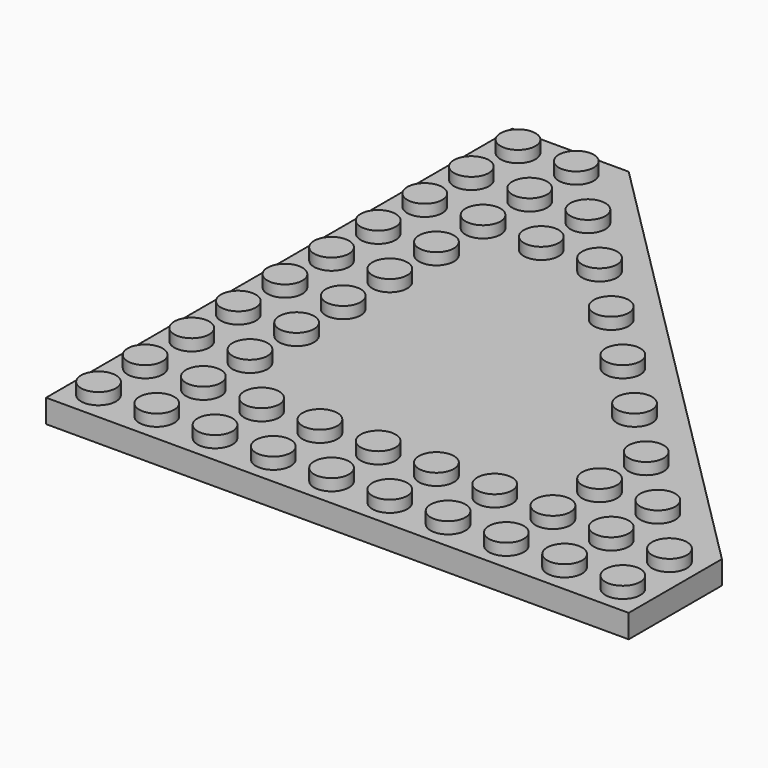
from build123d import *

# Parameters (mm, degrees)
F0_R     = 2.38125
F1_DEPTH = 3.175
F2_DEPTH = 4.7625
F3_T     = -1.5875
F4_R     = 3.175
F4_R_2   = 2.38125
F5_DEPTH = 1.5875
F6_DEPTH = 25.4


with BuildPart() as f1:
    # F0 (on Top) → F1 (new body)
    with BuildSketch(Plane.XY):
        with BuildLine():
            Line((-23.8125, 39.6875), (-39.6875, 39.6875))
            Line((-39.6875, 39.6875), (-39.6875, -39.6875))
            Line((-39.6875, -39.6875), (39.6875, -39.6875))
            Line((39.6875, -39.6875), (39.6875, -23.8125))
            Line((39.6875, -23.8125), (37.4025480227, -21.5275480227))
            ThreePointArc((37.4025480227, -21.5275480227), (34.0349519773, -21.5275480227), (34.0349519773, -18.1599519773))
            Line((34.0349519773, -18.1599519773), (29.4650480227, -13.5900480227))
            ThreePointArc((29.4650480227, -13.5900480227), (26.0974519773, -13.5900480227), (26.0974519773, -10.2224519773))
            Line((26.0974519773, -10.2224519773), (21.5275480227, -5.6525480227))
            ThreePointArc((21.5275480227, -5.6525480227), (18.1599519773, -5.6525480227), (18.1599519773, -2.2849519773))
            Line((18.1599519773, -2.2849519773), (13.5900480227, 2.2849519773))
            ThreePointArc((13.5900480227, 2.2849519773), (10.2224519773, 2.2849519773), (10.2224519773, 5.6525480227))
            Line((10.2224519773, 5.6525480227), (5.6525480227, 10.2224519773))
            ThreePointArc((5.6525480227, 10.2224519773), (2.2849519773, 10.2224519773), (2.2849519773, 13.5900480227))
            Line((2.2849519773, 13.5900480227), (-2.2849519773, 18.1599519773))
            ThreePointArc((-2.2849519773, 18.1599519773), (-5.6525480227, 18.1599519773), (-5.6525480227, 21.5275480227))
            Line((-5.6525480227, 21.5275480227), (-10.2224519773, 26.0974519773))
            ThreePointArc((-10.2224519773, 26.0974519773), (-13.5900480227, 26.0974519773), (-13.5900480227, 29.4650480227))
            Line((-13.5900480227, 29.4650480227), (-18.1599519773, 34.0349519773))
            ThreePointArc((-18.1599519773, 34.0349519773), (-21.5275480227, 34.0349519773), (-21.5275480227, 37.4025480227))
            Line((-21.5275480227, 37.4025480227), (-23.8125, 39.6875))
        make_face()
        with Locations((-35.71875, -35.71875)):
            Circle(F0_R, mode=Mode.SUBTRACT)
        with Locations((-27.78125, -35.71875)):
            Circle(F0_R, mode=Mode.SUBTRACT)
        with Locations((-19.84375, -35.71875)):
            Circle(F0_R, mode=Mode.SUBTRACT)
        with Locations((-35.71875, -27.78125)):
            Circle(F0_R, mode=Mode.SUBTRACT)
        with Locations((-27.78125, -27.78125)):
            Circle(F0_R, mode=Mode.SUBTRACT)
        with Locations((-19.84375, -27.78125)):
            Circle(F0_R, mode=Mode.SUBTRACT)
        with Locations((-11.90625, -35.71875)):
            Circle(F0_R, mode=Mode.SUBTRACT)
        with Locations((-3.96875, -35.71875)):
            Circle(F0_R, mode=Mode.SUBTRACT)
        with Locations((-11.90625, -27.78125)):
            Circle(F0_R, mode=Mode.SUBTRACT)
        with Locations((-3.96875, -27.78125)):
            Circle(F0_R, mode=Mode.SUBTRACT)
        with Locations((-35.71875, -19.84375)):
            Circle(F0_R, mode=Mode.SUBTRACT)
        with Locations((-35.71875, -11.90625)):
            Circle(F0_R, mode=Mode.SUBTRACT)
        with Locations((-27.78125, -19.84375)):
            Circle(F0_R, mode=Mode.SUBTRACT)
        with Locations((-19.84375, -19.84375)):
            Circle(F0_R, mode=Mode.SUBTRACT)
        with Locations((-27.78125, -11.90625)):
            Circle(F0_R, mode=Mode.SUBTRACT)
        with Locations((-19.84375, -11.90625)):
            Circle(F0_R, mode=Mode.SUBTRACT)
        with Locations((-35.71875, -3.96875)):
            Circle(F0_R, mode=Mode.SUBTRACT)
        with Locations((-27.78125, -3.96875)):
            Circle(F0_R, mode=Mode.SUBTRACT)
        with Locations((-19.84375, -3.96875)):
            Circle(F0_R, mode=Mode.SUBTRACT)
        with Locations((-11.90625, -19.84375)):
            Circle(F0_R, mode=Mode.SUBTRACT)
        with Locations((-11.90625, -11.90625)):
            Circle(F0_R, mode=Mode.SUBTRACT)
        with Locations((-3.96875, -19.84375)):
            Circle(F0_R, mode=Mode.SUBTRACT)
        with Locations((-3.96875, -11.90625)):
            Circle(F0_R, mode=Mode.SUBTRACT)
        with Locations((-11.90625, -3.96875)):
            Circle(F0_R, mode=Mode.SUBTRACT)
        with Locations((-3.96875, -3.96875)):
            Circle(F0_R, mode=Mode.SUBTRACT)
        with Locations((3.96875, -35.71875)):
            Circle(F0_R, mode=Mode.SUBTRACT)
        with Locations((11.90625, -35.71875)):
            Circle(F0_R, mode=Mode.SUBTRACT)
        with Locations((3.96875, -27.78125)):
            Circle(F0_R, mode=Mode.SUBTRACT)
        with Locations((11.90625, -27.78125)):
            Circle(F0_R, mode=Mode.SUBTRACT)
        with Locations((19.84375, -35.71875)):
            Circle(F0_R, mode=Mode.SUBTRACT)
        with Locations((27.78125, -35.71875)):
            Circle(F0_R, mode=Mode.SUBTRACT)
        with Locations((35.71875, -35.71875)):
            Circle(F0_R, mode=Mode.SUBTRACT)
        with Locations((19.84375, -27.78125)):
            Circle(F0_R, mode=Mode.SUBTRACT)
        with Locations((27.78125, -27.78125)):
            Circle(F0_R, mode=Mode.SUBTRACT)
        with Locations((35.71875, -27.78125)):
            Circle(F0_R, mode=Mode.SUBTRACT)
        with Locations((3.96875, -19.84375)):
            Circle(F0_R, mode=Mode.SUBTRACT)
        with Locations((3.96875, -11.90625)):
            Circle(F0_R, mode=Mode.SUBTRACT)
        with Locations((11.90625, -19.84375)):
            Circle(F0_R, mode=Mode.SUBTRACT)
        with Locations((11.90625, -11.90625)):
            Circle(F0_R, mode=Mode.SUBTRACT)
        with Locations((3.96875, -3.96875)):
            Circle(F0_R, mode=Mode.SUBTRACT)
        with Locations((11.90625, -3.96875)):
            Circle(F0_R, mode=Mode.SUBTRACT)
        with Locations((19.84375, -19.84375)):
            Circle(F0_R, mode=Mode.SUBTRACT)
        with Locations((27.78125, -19.84375)):
            Circle(F0_R, mode=Mode.SUBTRACT)
        with Locations((19.84375, -11.90625)):
            Circle(F0_R, mode=Mode.SUBTRACT)
        with Locations((-35.71875, 3.96875)):
            Circle(F0_R, mode=Mode.SUBTRACT)
        with Locations((-27.78125, 3.96875)):
            Circle(F0_R, mode=Mode.SUBTRACT)
        with Locations((-19.84375, 3.96875)):
            Circle(F0_R, mode=Mode.SUBTRACT)
        with Locations((-35.71875, 11.90625)):
            Circle(F0_R, mode=Mode.SUBTRACT)
        with Locations((-27.78125, 11.90625)):
            Circle(F0_R, mode=Mode.SUBTRACT)
        with Locations((-19.84375, 11.90625)):
            Circle(F0_R, mode=Mode.SUBTRACT)
        with Locations((-11.90625, 3.96875)):
            Circle(F0_R, mode=Mode.SUBTRACT)
        with Locations((-3.96875, 3.96875)):
            Circle(F0_R, mode=Mode.SUBTRACT)
        with Locations((-11.90625, 11.90625)):
            Circle(F0_R, mode=Mode.SUBTRACT)
        with Locations((-3.96875, 11.90625)):
            Circle(F0_R, mode=Mode.SUBTRACT)
        with Locations((-35.71875, 19.84375)):
            Circle(F0_R, mode=Mode.SUBTRACT)
        with Locations((-35.71875, 27.78125)):
            Circle(F0_R, mode=Mode.SUBTRACT)
        with Locations((-27.78125, 19.84375)):
            Circle(F0_R, mode=Mode.SUBTRACT)
        with Locations((-19.84375, 19.84375)):
            Circle(F0_R, mode=Mode.SUBTRACT)
        with Locations((-27.78125, 27.78125)):
            Circle(F0_R, mode=Mode.SUBTRACT)
        with Locations((-19.84375, 27.78125)):
            Circle(F0_R, mode=Mode.SUBTRACT)
        with Locations((-35.71875, 35.71875)):
            Circle(F0_R, mode=Mode.SUBTRACT)
        with Locations((-27.78125, 35.71875)):
            Circle(F0_R, mode=Mode.SUBTRACT)
        with Locations((-11.90625, 19.84375)):
            Circle(F0_R, mode=Mode.SUBTRACT)
        with Locations((3.96875, 3.96875)):
            Circle(F0_R, mode=Mode.SUBTRACT)
        with BuildLine():
            Line((-18.1599519773, 34.0349519773), (-21.5275480227, 37.4025480227))
            ThreePointArc((-21.5275480227, 37.4025480227), (-21.5275480227, 34.0349519773), (-18.1599519773, 34.0349519773))
        make_face()
        with BuildLine():
            Line((-10.2224519773, 26.0974519773), (-13.5900480227, 29.4650480227))
            ThreePointArc((-13.5900480227, 29.4650480227), (-13.5900480227, 26.0974519773), (-10.2224519773, 26.0974519773))
        make_face()
        with BuildLine():
            Line((-2.2849519773, 18.1599519773), (-5.6525480227, 21.5275480227))
            ThreePointArc((-5.6525480227, 21.5275480227), (-5.6525480227, 18.1599519773), (-2.2849519773, 18.1599519773))
        make_face()
        with BuildLine():
            Line((5.6525480227, 10.2224519773), (2.2849519773, 13.5900480227))
            ThreePointArc((2.2849519773, 13.5900480227), (2.2849519773, 10.2224519773), (5.6525480227, 10.2224519773))
        make_face()
        with BuildLine():
            ThreePointArc((10.2224519773, 5.6525480227), (10.2224519773, 2.2849519773), (13.5900480227, 2.2849519773))
            Line((13.5900480227, 2.2849519773), (10.2224519773, 5.6525480227))
        make_face()
        with BuildLine():
            ThreePointArc((18.1599519773, -2.2849519773), (18.1599519773, -5.6525480227), (21.5275480227, -5.6525480227))
            Line((21.5275480227, -5.6525480227), (18.1599519773, -2.2849519773))
        make_face()
        with BuildLine():
            ThreePointArc((26.0974519773, -10.2224519773), (26.0974519773, -13.5900480227), (29.4650480227, -13.5900480227))
            Line((29.4650480227, -13.5900480227), (26.0974519773, -10.2224519773))
        make_face()
        with BuildLine():
            ThreePointArc((34.0349519773, -18.1599519773), (34.0349519773, -21.5275480227), (37.4025480227, -21.5275480227))
            Line((37.4025480227, -21.5275480227), (34.0349519773, -18.1599519773))
        make_face()
        with Locations((-19.84375, 11.90625)):
            Circle(F0_R)
        with Locations((-11.90625, 11.90625)):
            Circle(F0_R)
        with Locations((-19.84375, 3.96875)):
            Circle(F0_R)
        with Locations((-11.90625, 3.96875)):
            Circle(F0_R)
        with Locations((-19.84375, -3.96875)):
            Circle(F0_R)
        with Locations((-19.84375, -11.90625)):
            Circle(F0_R)
        with Locations((-19.84375, -19.84375)):
            Circle(F0_R)
        with Locations((-11.90625, -19.84375)):
            Circle(F0_R)
        with Locations((-3.96875, -19.84375)):
            Circle(F0_R)
        with Locations((11.90625, -19.84375)):
            Circle(F0_R)
        with Locations((11.90625, -11.90625)):
            Circle(F0_R)
        with Locations((3.96875, -3.96875)):
            Circle(F0_R)
        with Locations((-3.96875, 3.96875)):
            Circle(F0_R)
        with Locations((3.96875, -19.84375)):
            Circle(F0_R)
        with Locations((3.96875, -11.90625)):
            Circle(F0_R)
        with Locations((-3.96875, -11.90625)):
            Circle(F0_R)
        with Locations((-11.90625, -11.90625)):
            Circle(F0_R)
        with Locations((-11.90625, -3.96875)):
            Circle(F0_R)
        with Locations((-3.96875, -3.96875)):
            Circle(F0_R)
    extrude(amount=F1_DEPTH)

    # F0 (on Top) → F2 (join)
    with BuildSketch(Plane.XY):
        with Locations((-35.71875, 35.71875)):
            Circle(F0_R)
        with Locations((-27.78125, 35.71875)):
            Circle(F0_R)
        with Locations((-35.71875, 27.78125)):
            Circle(F0_R)
        with Locations((-27.78125, 27.78125)):
            Circle(F0_R)
        with Locations((-35.71875, 19.84375)):
            Circle(F0_R)
        with Locations((-35.71875, 11.90625)):
            Circle(F0_R)
        with Locations((-27.78125, 11.90625)):
            Circle(F0_R)
        with Locations((-27.78125, 19.84375)):
            Circle(F0_R)
        with Locations((-35.71875, 3.96875)):
            Circle(F0_R)
        with Locations((-27.78125, 3.96875)):
            Circle(F0_R)
        with Locations((-27.78125, -3.96875)):
            Circle(F0_R)
        with Locations((-35.71875, -3.96875)):
            Circle(F0_R)
        with Locations((-35.71875, -11.90625)):
            Circle(F0_R)
        with Locations((-27.78125, -11.90625)):
            Circle(F0_R)
        with Locations((-27.78125, -19.84375)):
            Circle(F0_R)
        with Locations((-35.71875, -19.84375)):
            Circle(F0_R)
        with Locations((-35.71875, -27.78125)):
            Circle(F0_R)
        with Locations((-27.78125, -27.78125)):
            Circle(F0_R)
        with Locations((-27.78125, -35.71875)):
            Circle(F0_R)
        with Locations((-35.71875, -35.71875)):
            Circle(F0_R)
        with Locations((-19.84375, -35.71875)):
            Circle(F0_R)
        with Locations((-19.84375, -27.78125)):
            Circle(F0_R)
        with Locations((-11.90625, -35.71875)):
            Circle(F0_R)
        with Locations((-11.90625, -27.78125)):
            Circle(F0_R)
        with Locations((-3.96875, -27.78125)):
            Circle(F0_R)
        with Locations((-3.96875, -35.71875)):
            Circle(F0_R)
        with Locations((3.96875, -35.71875)):
            Circle(F0_R)
        with Locations((3.96875, -27.78125)):
            Circle(F0_R)
        with Locations((11.90625, -35.71875)):
            Circle(F0_R)
        with Locations((11.90625, -27.78125)):
            Circle(F0_R)
        with Locations((19.84375, -27.78125)):
            Circle(F0_R)
        with Locations((19.84375, -35.71875)):
            Circle(F0_R)
        with Locations((27.78125, -35.71875)):
            Circle(F0_R)
        with Locations((27.78125, -27.78125)):
            Circle(F0_R)
        with Locations((35.71875, -27.78125)):
            Circle(F0_R)
        with Locations((35.71875, -35.71875)):
            Circle(F0_R)
        with Locations((-19.84375, 27.78125)):
            Circle(F0_R)
        with Locations((-11.90625, 19.84375)):
            Circle(F0_R)
        with Locations((-3.96875, 11.90625)):
            Circle(F0_R)
        with Locations((3.96875, 3.96875)):
            Circle(F0_R)
        with Locations((11.90625, -3.96875)):
            Circle(F0_R)
        with Locations((19.84375, -11.90625)):
            Circle(F0_R)
        with Locations((27.78125, -19.84375)):
            Circle(F0_R)
        with Locations((19.84375, -19.84375)):
            Circle(F0_R)
        with Locations((-19.84375, 19.84375)):
            Circle(F0_R)
    extrude(amount=F2_DEPTH)

    # F3
    f3_openings = [f1.faces().sort_by_distance(p)[0] for p in [
        (-8.715686, -8.715686, 0),
    ]]
    offset(amount=F3_T, openings=f3_openings, kind=Kind.INTERSECTION)

    # F4 (on face) → F5 (join)
    with BuildSketch(Plane(origin=(0, 0, 1.5875), x_dir=(1, 0, 0), z_dir=(0, 0, -1))):
        with Locations((-31.75, 23.8125)):
            Circle(F4_R)
        with Locations((-31.75, 23.8125)):
            Circle(F4_R_2, mode=Mode.SUBTRACT)
        with Locations((-31.75, 15.875)):
            Circle(F4_R)
        with Locations((-31.75, 15.875)):
            Circle(F4_R_2, mode=Mode.SUBTRACT)
        with Locations((-31.75, 7.9375)):
            Circle(F4_R)
        with Locations((-31.75, 7.9375)):
            Circle(F4_R_2, mode=Mode.SUBTRACT)
        with Locations((-31.75, 0)):
            Circle(F4_R)
        with Locations((-31.75, 0)):
            Circle(F4_R_2, mode=Mode.SUBTRACT)
        with Locations((-31.75, -7.9375)):
            Circle(F4_R)
        with Locations((-31.75, -7.9375)):
            Circle(F4_R_2, mode=Mode.SUBTRACT)
        with Locations((-31.75, -15.875)):
            Circle(F4_R)
        with Locations((-31.75, -15.875)):
            Circle(F4_R_2, mode=Mode.SUBTRACT)
        with Locations((-31.75, -23.8125)):
            Circle(F4_R)
        with Locations((-31.75, -23.8125)):
            Circle(F4_R_2, mode=Mode.SUBTRACT)
        with Locations((-31.75, -31.75)):
            Circle(F4_R)
        with Locations((-31.75, -31.75)):
            Circle(F4_R_2, mode=Mode.SUBTRACT)
        with Locations((-23.8125, 31.75)):
            Circle(F4_R)
        with Locations((-23.8125, 31.75)):
            Circle(F4_R_2, mode=Mode.SUBTRACT)
        with Locations((-23.8125, 23.8125)):
            Circle(F4_R)
        with Locations((-23.8125, 23.8125)):
            Circle(F4_R_2, mode=Mode.SUBTRACT)
        with Locations((-23.8125, 15.875)):
            Circle(F4_R)
        with Locations((-23.8125, 15.875)):
            Circle(F4_R_2, mode=Mode.SUBTRACT)
        with Locations((-23.8125, 7.9375)):
            Circle(F4_R)
        with Locations((-23.8125, 7.9375)):
            Circle(F4_R_2, mode=Mode.SUBTRACT)
        with Locations((-23.8125, 0)):
            Circle(F4_R)
        with Locations((-23.8125, 0)):
            Circle(F4_R_2, mode=Mode.SUBTRACT)
        with Locations((-23.8125, -7.9375)):
            Circle(F4_R)
        with Locations((-23.8125, -7.9375)):
            Circle(F4_R_2, mode=Mode.SUBTRACT)
        with Locations((-23.8125, -15.875)):
            Circle(F4_R)
        with Locations((-23.8125, -15.875)):
            Circle(F4_R_2, mode=Mode.SUBTRACT)
        with Locations((-23.8125, -23.8125)):
            Circle(F4_R)
        with Locations((-23.8125, -23.8125)):
            Circle(F4_R_2, mode=Mode.SUBTRACT)
        with Locations((-23.8125, -31.75)):
            Circle(F4_R)
        with Locations((-23.8125, -31.75)):
            Circle(F4_R_2, mode=Mode.SUBTRACT)
        with Locations((-15.875, 31.75)):
            Circle(F4_R)
        with Locations((-15.875, 31.75)):
            Circle(F4_R_2, mode=Mode.SUBTRACT)
        with Locations((-15.875, 23.8125)):
            Circle(F4_R)
        with Locations((-15.875, 23.8125)):
            Circle(F4_R_2, mode=Mode.SUBTRACT)
        with Locations((-15.875, 15.875)):
            Circle(F4_R)
        with Locations((-15.875, 15.875)):
            Circle(F4_R_2, mode=Mode.SUBTRACT)
        with Locations((-15.875, 7.9375)):
            Circle(F4_R)
        with Locations((-15.875, 7.9375)):
            Circle(F4_R_2, mode=Mode.SUBTRACT)
        with Locations((-15.875, 0)):
            Circle(F4_R)
        with Locations((-15.875, 0)):
            Circle(F4_R_2, mode=Mode.SUBTRACT)
        with Locations((-15.875, -7.9375)):
            Circle(F4_R)
        with Locations((-15.875, -7.9375)):
            Circle(F4_R_2, mode=Mode.SUBTRACT)
        with Locations((-15.875, -15.875)):
            Circle(F4_R)
        with Locations((-15.875, -15.875)):
            Circle(F4_R_2, mode=Mode.SUBTRACT)
        with Locations((-15.875, -23.8125)):
            Circle(F4_R)
        with Locations((-15.875, -23.8125)):
            Circle(F4_R_2, mode=Mode.SUBTRACT)
        with Locations((-7.9375, 31.75)):
            Circle(F4_R)
        with Locations((-7.9375, 31.75)):
            Circle(F4_R_2, mode=Mode.SUBTRACT)
        with Locations((-7.9375, 23.8125)):
            Circle(F4_R)
        with Locations((-7.9375, 23.8125)):
            Circle(F4_R_2, mode=Mode.SUBTRACT)
        with Locations((-7.9375, 15.875)):
            Circle(F4_R)
        with Locations((-7.9375, 15.875)):
            Circle(F4_R_2, mode=Mode.SUBTRACT)
        with Locations((-7.9375, 7.9375)):
            Circle(F4_R)
        with Locations((-7.9375, 7.9375)):
            Circle(F4_R_2, mode=Mode.SUBTRACT)
        with Locations((-7.9375, 0)):
            Circle(F4_R)
        with Locations((-7.9375, 0)):
            Circle(F4_R_2, mode=Mode.SUBTRACT)
        with Locations((-7.9375, -7.9375)):
            Circle(F4_R)
        with Locations((-7.9375, -7.9375)):
            Circle(F4_R_2, mode=Mode.SUBTRACT)
        with Locations((-7.9375, -15.875)):
            Circle(F4_R)
        with Locations((-7.9375, -15.875)):
            Circle(F4_R_2, mode=Mode.SUBTRACT)
        with Locations((0, 31.75)):
            Circle(F4_R)
        with Locations((0, 31.75)):
            Circle(F4_R_2, mode=Mode.SUBTRACT)
        with Locations((0, 23.8125)):
            Circle(F4_R)
        with Locations((0, 23.8125)):
            Circle(F4_R_2, mode=Mode.SUBTRACT)
        with Locations((0, 15.875)):
            Circle(F4_R)
        with Locations((0, 15.875)):
            Circle(F4_R_2, mode=Mode.SUBTRACT)
        with Locations((0, 7.9375)):
            Circle(F4_R)
        with Locations((0, 7.9375)):
            Circle(F4_R_2, mode=Mode.SUBTRACT)
        Circle(F4_R)
        Circle(F4_R_2, mode=Mode.SUBTRACT)
        with Locations((0, -7.9375)):
            Circle(F4_R)
        with Locations((0, -7.9375)):
            Circle(F4_R_2, mode=Mode.SUBTRACT)
        with Locations((7.9375, 31.75)):
            Circle(F4_R)
        with Locations((7.9375, 31.75)):
            Circle(F4_R_2, mode=Mode.SUBTRACT)
        with Locations((7.9375, 23.8125)):
            Circle(F4_R)
        with Locations((7.9375, 23.8125)):
            Circle(F4_R_2, mode=Mode.SUBTRACT)
        with Locations((7.9375, 15.875)):
            Circle(F4_R)
        with Locations((7.9375, 15.875)):
            Circle(F4_R_2, mode=Mode.SUBTRACT)
        with Locations((7.9375, 7.9375)):
            Circle(F4_R)
        with Locations((7.9375, 7.9375)):
            Circle(F4_R_2, mode=Mode.SUBTRACT)
        with Locations((7.9375, 0)):
            Circle(F4_R)
        with Locations((7.9375, 0)):
            Circle(F4_R_2, mode=Mode.SUBTRACT)
        with Locations((15.875, 31.75)):
            Circle(F4_R)
        with Locations((15.875, 31.75)):
            Circle(F4_R_2, mode=Mode.SUBTRACT)
        with Locations((15.875, 23.8125)):
            Circle(F4_R)
        with Locations((15.875, 23.8125)):
            Circle(F4_R_2, mode=Mode.SUBTRACT)
        with Locations((15.875, 15.875)):
            Circle(F4_R)
        with Locations((15.875, 15.875)):
            Circle(F4_R_2, mode=Mode.SUBTRACT)
        with Locations((15.875, 7.9375)):
            Circle(F4_R)
        with Locations((15.875, 7.9375)):
            Circle(F4_R_2, mode=Mode.SUBTRACT)
        with Locations((23.8125, 31.75)):
            Circle(F4_R)
        with Locations((23.8125, 31.75)):
            Circle(F4_R_2, mode=Mode.SUBTRACT)
        with Locations((23.8125, 23.8125)):
            Circle(F4_R)
        with Locations((23.8125, 23.8125)):
            Circle(F4_R_2, mode=Mode.SUBTRACT)
        with Locations((23.8125, 15.875)):
            Circle(F4_R)
        with Locations((23.8125, 15.875)):
            Circle(F4_R_2, mode=Mode.SUBTRACT)
        with Locations((31.75, 31.75)):
            Circle(F4_R)
        with Locations((31.75, 31.75)):
            Circle(F4_R_2, mode=Mode.SUBTRACT)
        with Locations((31.75, 23.8125)):
            Circle(F4_R)
        with Locations((31.75, 23.8125)):
            Circle(F4_R_2, mode=Mode.SUBTRACT)
        with BuildLine():
            Line((-33.4337980227, 33.4337980227), (-33.9950640303, 33.9950640303))
            ThreePointArc((-33.9950640303, 33.9950640303), (-33.9950640303, 29.5049359697), (-29.5049359697, 29.5049359697))
            Line((-29.5049359697, 29.5049359697), (-30.0662019773, 30.0662019773))
            ThreePointArc((-30.0662019773, 30.0662019773), (-33.4337980227, 30.0662019773), (-33.4337980227, 33.4337980227))
        make_face()
        with BuildLine():
            ThreePointArc((-28.575, 31.75), (-30.5349801022, 34.6833175157), (-33.9950640303, 33.9950640303))
            Line((-33.9950640303, 33.9950640303), (-33.4337980227, 33.4337980227))
            ThreePointArc((-33.4337980227, 33.4337980227), (-30.8387350767, 33.9499881368), (-29.36875, 31.75))
            ThreePointArc((-29.36875, 31.75), (-29.5500118632, 30.8387350767), (-30.0662019773, 30.0662019773))
            Line((-30.0662019773, 30.0662019773), (-29.5049359697, 29.5049359697))
            ThreePointArc((-29.5049359697, 29.5049359697), (-28.8166824843, 30.5349801022), (-28.575, 31.75))
        make_face()
    extrude(amount=F5_DEPTH)

    # F4 (on face) → F6 (cut)
    with BuildSketch(Plane(origin=(0, 0, 1.5875), x_dir=(1, 0, 0), z_dir=(0, 0, -1))):
        with BuildLine():
            Line((5.5599390385, -8.0699969312), (4.8706855015, -8.7592504682))
            ThreePointArc((4.8706855015, -8.7592504682), (8.3519206603, -11.0853374349), (11.1125, -7.9375))
            ThreePointArc((11.1125, -7.9375), (10.4563968554, -6.0046824629), (8.7592504682, -4.8706855015))
            Line((8.7592504682, -4.8706855015), (8.0699969312, -5.5599390385))
            ThreePointArc((8.0699969312, -5.5599390385), (9.6675086532, -6.3012171325), (10.31875, -7.9375))
            ThreePointArc((10.31875, -7.9375), (8.0037741386, -10.3178275617), (5.5599390385, -8.0699969312))
        make_face()
        with BuildLine():
            ThreePointArc((8.7592504682, -4.8706855015), (5.6924359697, -5.6924359697), (4.8706855015, -8.7592504682))
            Line((4.8706855015, -8.7592504682), (5.5599390385, -8.0699969312))
            ThreePointArc((5.5599390385, -8.0699969312), (6.2537019773, -6.2537019773), (8.0699969312, -5.5599390385))
            Line((8.0699969312, -5.5599390385), (8.7592504682, -4.8706855015))
        make_face()
        with BuildLine():
            Line((-2.3775609615, -16.0074969312), (-3.0668144985, -16.6967504682))
            ThreePointArc((-3.0668144985, -16.6967504682), (0.4144206603, -19.0228374349), (3.175, -15.875))
            ThreePointArc((3.175, -15.875), (2.5188968554, -13.9421824629), (0.8217504682, -12.8081855015))
            Line((0.8217504682, -12.8081855015), (0.1324969312, -13.4974390385))
            ThreePointArc((0.1324969312, -13.4974390385), (1.7300086532, -14.2387171325), (2.38125, -15.875))
            ThreePointArc((2.38125, -15.875), (0.0662741386, -18.2553275617), (-2.3775609615, -16.0074969312))
        make_face()
        with BuildLine():
            ThreePointArc((0.8217504682, -12.8081855015), (-2.2450640303, -13.6299359697), (-3.0668144985, -16.6967504682))
            Line((-3.0668144985, -16.6967504682), (-2.3775609615, -16.0074969312))
            ThreePointArc((-2.3775609615, -16.0074969312), (-1.6837980227, -14.1912019773), (0.1324969312, -13.4974390385))
            Line((0.1324969312, -13.4974390385), (0.8217504682, -12.8081855015))
        make_face()
        with BuildLine():
            Line((-10.3150609615, -23.9449969312), (-11.0043144985, -24.6342504682))
            ThreePointArc((-11.0043144985, -24.6342504682), (-7.5230793397, -26.9603374349), (-4.7625, -23.8125))
            ThreePointArc((-4.7625, -23.8125), (-5.4186031446, -21.8796824629), (-7.1157495318, -20.7456855015))
            Line((-7.1157495318, -20.7456855015), (-7.8050030688, -21.4349390385))
            ThreePointArc((-7.8050030688, -21.4349390385), (-6.2074913468, -22.1762171325), (-5.55625, -23.8125))
            ThreePointArc((-5.55625, -23.8125), (-7.8712258614, -26.1928275617), (-10.3150609615, -23.9449969312))
        make_face()
        with BuildLine():
            ThreePointArc((-7.1157495318, -20.7456855015), (-10.1825640303, -21.5674359697), (-11.0043144985, -24.6342504682))
            Line((-11.0043144985, -24.6342504682), (-10.3150609615, -23.9449969312))
            ThreePointArc((-10.3150609615, -23.9449969312), (-9.6212980227, -22.1287019773), (-7.8050030688, -21.4349390385))
            Line((-7.8050030688, -21.4349390385), (-7.1157495318, -20.7456855015))
        make_face()
        with BuildLine():
            ThreePointArc((-18.9418144985, -32.5717504682), (-15.4605793397, -34.8978374349), (-12.7, -31.75))
            ThreePointArc((-12.7, -31.75), (-13.3561031446, -29.8171824629), (-15.0532495318, -28.6831855015))
            Line((-15.0532495318, -28.6831855015), (-15.7425030688, -29.3724390385))
            ThreePointArc((-15.7425030688, -29.3724390385), (-14.1449913468, -30.1137171325), (-13.49375, -31.75))
            ThreePointArc((-13.49375, -31.75), (-15.8087258614, -34.1303275617), (-18.2525609615, -31.8824969312))
            Line((-18.2525609615, -31.8824969312), (-18.9418144985, -32.5717504682))
        make_face()
        with BuildLine():
            Line((-15.7425030688, -29.3724390385), (-15.0532495318, -28.6831855015))
            ThreePointArc((-15.0532495318, -28.6831855015), (-18.1200640303, -29.5049359697), (-18.9418144985, -32.5717504682))
            Line((-18.9418144985, -32.5717504682), (-18.2525609615, -31.8824969312))
            ThreePointArc((-18.2525609615, -31.8824969312), (-17.5587980227, -30.0662019773), (-15.7425030688, -29.3724390385))
        make_face()
        with BuildLine():
            ThreePointArc((16.6967504682, 3.0668144985), (13.6299359697, 2.2450640303), (12.8081855015, -0.8217504682))
            Line((12.8081855015, -0.8217504682), (13.4974390385, -0.1324969312))
            ThreePointArc((13.4974390385, -0.1324969312), (14.1912019773, 1.6837980227), (16.0074969312, 2.3775609615))
            Line((16.0074969312, 2.3775609615), (16.6967504682, 3.0668144985))
        make_face()
        with BuildLine():
            Line((13.4974390385, -0.1324969312), (12.8081855015, -0.8217504682))
            ThreePointArc((12.8081855015, -0.8217504682), (16.2894206603, -3.1478374349), (19.05, 0))
            ThreePointArc((19.05, 0), (18.3938968554, 1.9328175371), (16.6967504682, 3.0668144985))
            Line((16.6967504682, 3.0668144985), (16.0074969312, 2.3775609615))
            ThreePointArc((16.0074969312, 2.3775609615), (17.6050086532, 1.6362828675), (18.25625, 0))
            ThreePointArc((18.25625, 0), (15.9412741386, -2.3803275617), (13.4974390385, -0.1324969312))
        make_face()
        with BuildLine():
            Line((23.9449969312, 10.3150609615), (24.6342504682, 11.0043144985))
            ThreePointArc((24.6342504682, 11.0043144985), (21.5674359697, 10.1825640303), (20.7456855015, 7.1157495318))
            Line((20.7456855015, 7.1157495318), (21.4349390385, 7.8050030688))
            ThreePointArc((21.4349390385, 7.8050030688), (22.1287019773, 9.6212980227), (23.9449969312, 10.3150609615))
        make_face()
        with BuildLine():
            ThreePointArc((26.9875, 7.9375), (26.3313968554, 9.8703175371), (24.6342504682, 11.0043144985))
            Line((24.6342504682, 11.0043144985), (23.9449969312, 10.3150609615))
            ThreePointArc((23.9449969312, 10.3150609615), (25.5425086532, 9.5737828675), (26.19375, 7.9375))
            ThreePointArc((26.19375, 7.9375), (23.8787741386, 5.5571724383), (21.4349390385, 7.8050030688))
            Line((21.4349390385, 7.8050030688), (20.7456855015, 7.1157495318))
            ThreePointArc((20.7456855015, 7.1157495318), (24.2269206603, 4.7896625651), (26.9875, 7.9375))
        make_face()
        with BuildLine():
            Line((31.8824969312, 18.2525609615), (32.5717504682, 18.9418144985))
            ThreePointArc((32.5717504682, 18.9418144985), (29.5049359697, 18.1200640303), (28.6831855015, 15.0532495318))
            Line((28.6831855015, 15.0532495318), (29.3724390385, 15.7425030688))
            ThreePointArc((29.3724390385, 15.7425030688), (30.0662019773, 17.5587980227), (31.8824969312, 18.2525609615))
        make_face()
        with BuildLine():
            ThreePointArc((34.925, 15.875), (34.2688968554, 17.8078175371), (32.5717504682, 18.9418144985))
            Line((32.5717504682, 18.9418144985), (31.8824969312, 18.2525609615))
            ThreePointArc((31.8824969312, 18.2525609615), (33.4800086532, 17.5112828675), (34.13125, 15.875))
            ThreePointArc((34.13125, 15.875), (31.8162741386, 13.4946724383), (29.3724390385, 15.7425030688))
            Line((29.3724390385, 15.7425030688), (28.6831855015, 15.0532495318))
            ThreePointArc((28.6831855015, 15.0532495318), (32.1644206603, 12.7271625651), (34.925, 15.875))
        make_face()
        with BuildLine():
            ThreePointArc((16.0074969312, 2.3775609615), (14.1912019773, 1.6837980227), (13.4974390385, -0.1324969312))
            Line((13.4974390385, -0.1324969312), (16.0074969312, 2.3775609615))
        make_face()
        with BuildLine():
            Line((21.4349390385, 7.8050030688), (23.9449969312, 10.3150609615))
            ThreePointArc((23.9449969312, 10.3150609615), (22.1287019773, 9.6212980227), (21.4349390385, 7.8050030688))
        make_face()
        with BuildLine():
            Line((29.3724390385, 15.7425030688), (31.8824969312, 18.2525609615))
            ThreePointArc((31.8824969312, 18.2525609615), (30.0662019773, 17.5587980227), (29.3724390385, 15.7425030688))
        make_face()
        with BuildLine():
            Line((16.0074969312, 2.3775609615), (13.4974390385, -0.1324969312))
            ThreePointArc((13.4974390385, -0.1324969312), (15.9412741386, -2.3803275617), (18.25625, 0))
            ThreePointArc((18.25625, 0), (17.6050086532, 1.6362828675), (16.0074969312, 2.3775609615))
        make_face()
        with BuildLine():
            ThreePointArc((26.19375, 7.9375), (25.5425086532, 9.5737828675), (23.9449969312, 10.3150609615))
            Line((23.9449969312, 10.3150609615), (21.4349390385, 7.8050030688))
            ThreePointArc((21.4349390385, 7.8050030688), (23.8787741386, 5.5571724383), (26.19375, 7.9375))
        make_face()
        with BuildLine():
            ThreePointArc((34.13125, 15.875), (33.4800086532, 17.5112828675), (31.8824969312, 18.2525609615))
            Line((31.8824969312, 18.2525609615), (29.3724390385, 15.7425030688))
            ThreePointArc((29.3724390385, 15.7425030688), (31.8162741386, 13.4946724383), (34.13125, 15.875))
        make_face()
        with BuildLine():
            Line((8.0699969312, -5.5599390385), (5.5599390385, -8.0699969312))
            ThreePointArc((5.5599390385, -8.0699969312), (8.0037741386, -10.3178275617), (10.31875, -7.9375))
            ThreePointArc((10.31875, -7.9375), (9.6675086532, -6.3012171325), (8.0699969312, -5.5599390385))
        make_face()
        with BuildLine():
            ThreePointArc((8.0699969312, -5.5599390385), (6.2537019773, -6.2537019773), (5.5599390385, -8.0699969312))
            Line((5.5599390385, -8.0699969312), (8.0699969312, -5.5599390385))
        make_face()
        with BuildLine():
            Line((0.1324969312, -13.4974390385), (-2.3775609615, -16.0074969312))
            ThreePointArc((-2.3775609615, -16.0074969312), (0.0662741386, -18.2553275617), (2.38125, -15.875))
            ThreePointArc((2.38125, -15.875), (1.7300086532, -14.2387171325), (0.1324969312, -13.4974390385))
        make_face()
        with BuildLine():
            ThreePointArc((0.1324969312, -13.4974390385), (-1.6837980227, -14.1912019773), (-2.3775609615, -16.0074969312))
            Line((-2.3775609615, -16.0074969312), (0.1324969312, -13.4974390385))
        make_face()
        with BuildLine():
            Line((-7.8050030688, -21.4349390385), (-10.3150609615, -23.9449969312))
            ThreePointArc((-10.3150609615, -23.9449969312), (-7.8712258614, -26.1928275617), (-5.55625, -23.8125))
            ThreePointArc((-5.55625, -23.8125), (-6.2074913468, -22.1762171325), (-7.8050030688, -21.4349390385))
        make_face()
        with BuildLine():
            ThreePointArc((-7.8050030688, -21.4349390385), (-9.6212980227, -22.1287019773), (-10.3150609615, -23.9449969312))
            Line((-10.3150609615, -23.9449969312), (-7.8050030688, -21.4349390385))
        make_face()
        with BuildLine():
            Line((-18.2525609615, -31.8824969312), (-15.7425030688, -29.3724390385))
            ThreePointArc((-15.7425030688, -29.3724390385), (-17.5587980227, -30.0662019773), (-18.2525609615, -31.8824969312))
        make_face()
        with BuildLine():
            ThreePointArc((-13.49375, -31.75), (-14.1449913468, -30.1137171325), (-15.7425030688, -29.3724390385))
            Line((-15.7425030688, -29.3724390385), (-18.2525609615, -31.8824969312))
            ThreePointArc((-18.2525609615, -31.8824969312), (-15.8087258614, -34.1303275617), (-13.49375, -31.75))
        make_face()
    extrude(amount=F6_DEPTH, mode=Mode.SUBTRACT)


solid = f1.part
